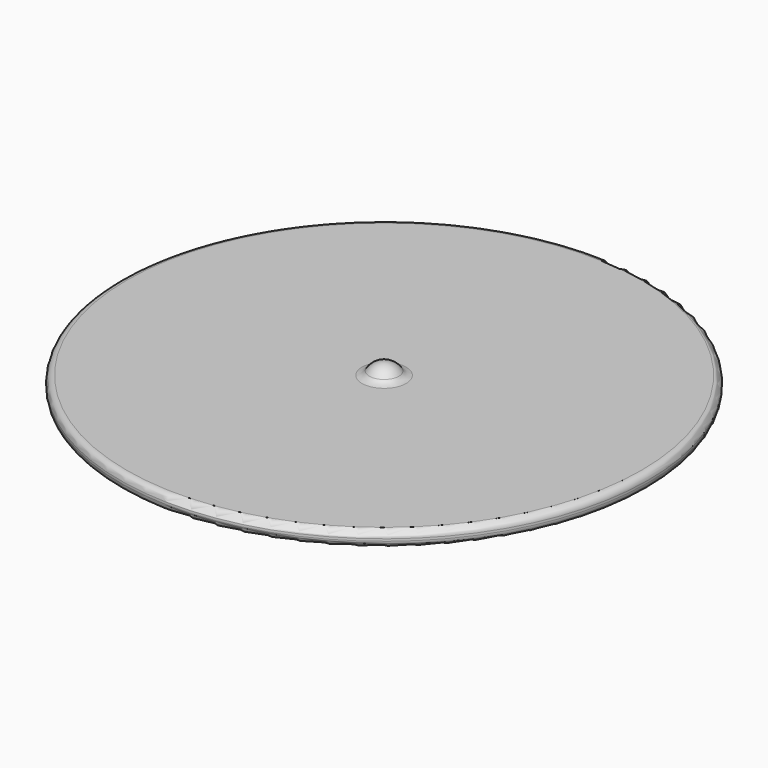
from build123d import *

# Parameters (mm, degrees)
F2_R     = 3.81
F3_R     = 3.81
F4_R     = 5.08
F6_D     = 5
F6_DEPTH = 8
F6_TIP   = 1.5021515476


with BuildPart() as f1:
    # F0 (on Front) → F1 (revolve)
    with BuildSketch(Plane.XZ):
        with BuildLine():
            Line((0, 15.748), (0, 0))
            Line((0, 0), (152.4, 0))
            Line((152.4, 0), (152.4, 8.89))
            Line((152.4, 8.89), (9.652, 8.89))
            ThreePointArc((9.652, 8.89), (5.9201619066, 13.8589315722), (0, 15.748))
        make_face()
    revolve(axis=Axis((0, 0, 7.874), (0, 0, -1)))

    # F2
    f2_edges = [f1.edges().sort_by_distance(p)[0] for p in [
        (-152.4, 0, 8.89),
    ]]
    fillet(f2_edges, radius=F2_R)

    # F3
    f3_edges = [f1.edges().sort_by_distance(p)[0] for p in [
        (-152.4, 0, 0),
    ]]
    fillet(f3_edges, radius=F3_R)

    # F4
    f4_edges = [f1.edges().sort_by_distance(p)[0] for p in [
        (-9.652, 0, 8.89),
    ]]
    fillet(f4_edges, radius=F4_R)

    # F6
    with Locations(Plane(origin=(0, 0, 0), x_dir=(1, 0, 0), z_dir=(0, 0, -1))):
        with Locations((0, 0)):
            Hole(F6_D / 2, depth=F6_DEPTH)
            with Locations((0, 0, -(F6_DEPTH + F6_TIP / 2))):  # 118° drill point
                Cone(0, F6_D / 2, F6_TIP, mode=Mode.SUBTRACT)


solid = f1.part
